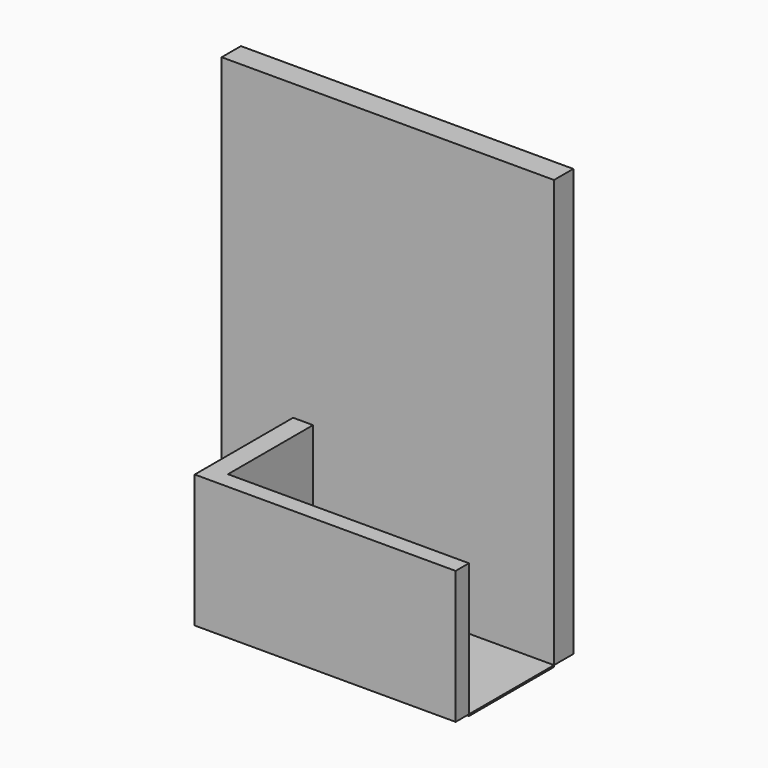
from build123d import *

# Parameters (mm, degrees)
F0_W     = 2000
F0_H     = 2570
F1_DEPTH = 145
F2_W     = 120
F2_H     = 800
F3_DEPTH = 740
F4_W     = 100
F4_H     = 800
F5_DEPTH = 1450
F6_W     = 1450
F6_H     = 640
F7_DEPTH = 10


with BuildPart() as f1:
    # F0 (on Front) → F1 (new body)
    with BuildSketch(Plane.XZ):
        with Locations((-11.006661, 984.456463)):
            Rectangle(F0_W, F0_H)
    extrude(amount=-F1_DEPTH)

    # F2 (on face) → F3 (join)
    with BuildSketch(Plane.XZ):
        with Locations((-521.006661, 99.456463)):
            Rectangle(F2_W, F2_H)
    extrude(amount=F3_DEPTH)

    # F4 (on face) → F5 (join)
    with BuildSketch(Plane.YZ.offset(-461.006661)):
        with Locations((-690, 99.456463)):
            Rectangle(F4_W, F4_H)
    extrude(amount=F5_DEPTH)


with BuildPart() as f7:
    # F6 (on face) → F7 (new body)
    with BuildSketch(Plane(origin=(0, 0, -300.543537), x_dir=(1, 0, 0), z_dir=(0, 0, -1))):
        with Locations((263.993339, 320)):
            Rectangle(F6_W, F6_H)
    extrude(amount=F7_DEPTH)


solid = Compound([f1.part, f7.part])
